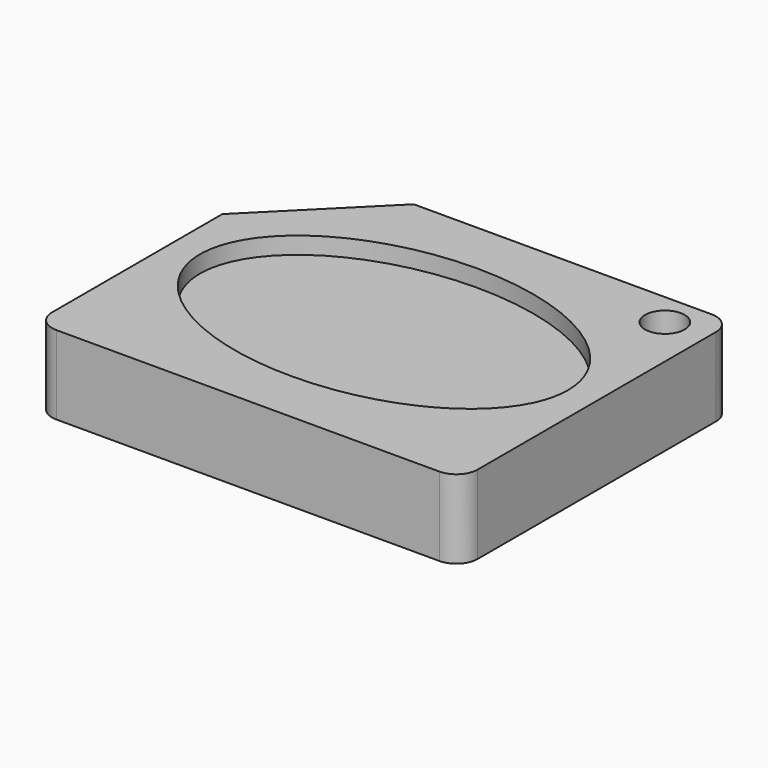
from build123d import *

# Parameters (mm, degrees)
F0_R     = 1.181384
F1_DEPTH = 4.699
F2_DEPTH = 3.683
F4_DEPTH = 1.016


with BuildPart() as f1:
    # F0 (on Top) → F1 (new body)
    with BuildSketch(Plane.XY):
        with BuildLine():
            ThreePointArc((-2.966018, -12.7), (-2.594043, -13.598026), (-1.696018, -13.97))
            Line((-1.696018, -13.97), (21.163982, -13.97))
            ThreePointArc((21.163982, -13.97), (22.062008, -13.598026), (22.433982, -12.7))
            Line((22.433982, -12.7), (22.433982, 5.08))
            ThreePointArc((22.433982, 5.08), (22.062008, 5.978026), (21.163982, 6.35))
            Line((21.163982, 6.35), (3.383982, 6.35))
            Line((3.383982, 6.35), (-2.966018, 0))
            Line((-2.966018, 0), (-2.966018, -12.7))
        make_face()
        with BuildLine():
            add(Edge.make_bspline(
                [(20.715084, -3.81), (20.715084, 8.230305), (4.243432, 2.210153), (-12.228221, -3.81), (4.243432, -9.830153), (20.715084, -15.850305), (20.715084, -3.81)],
                knots=[0, 0, 0, 2.094395, 2.094395, 4.18879, 4.18879, 6.283185, 6.283185, 6.283185], degree=2, weights=[1, 0.5, 1, 0.5, 1, 0.5, 1]))
        make_face(mode=Mode.SUBTRACT)
        with Locations((19.954724, 4.366593)):
            Circle(F0_R, mode=Mode.SUBTRACT)
    extrude(amount=F1_DEPTH)

    # F0 (on Top) → F2 (join)
    with BuildSketch(Plane.XY):
        with BuildLine():
            add(Edge.make_bspline(
                [(20.715084, -3.81), (20.715084, 8.230305), (4.243432, 2.210153), (-12.228221, -3.81), (4.243432, -9.830153), (20.715084, -15.850305), (20.715084, -3.81)],
                knots=[0, 0, 0, 2.094395, 2.094395, 4.18879, 4.18879, 6.283185, 6.283185, 6.283185], degree=2, weights=[1, 0.5, 1, 0.5, 1, 0.5, 1]))
        make_face()
    extrude(amount=F2_DEPTH)

    # F0 (on Top) → F4 (cut)
    with BuildSketch(Plane.XY):
        with BuildLine():
            add(Edge.make_bspline(
                [(20.715084, -3.81), (20.715084, 8.230305), (4.243432, 2.210153), (-12.228221, -3.81), (4.243432, -9.830153), (20.715084, -15.850305), (20.715084, -3.81)],
                knots=[0, 0, 0, 2.094395, 2.094395, 4.18879, 4.18879, 6.283185, 6.283185, 6.283185], degree=2, weights=[1, 0.5, 1, 0.5, 1, 0.5, 1]))
        make_face()
    extrude(amount=F4_DEPTH, mode=Mode.SUBTRACT)


solid = f1.part
